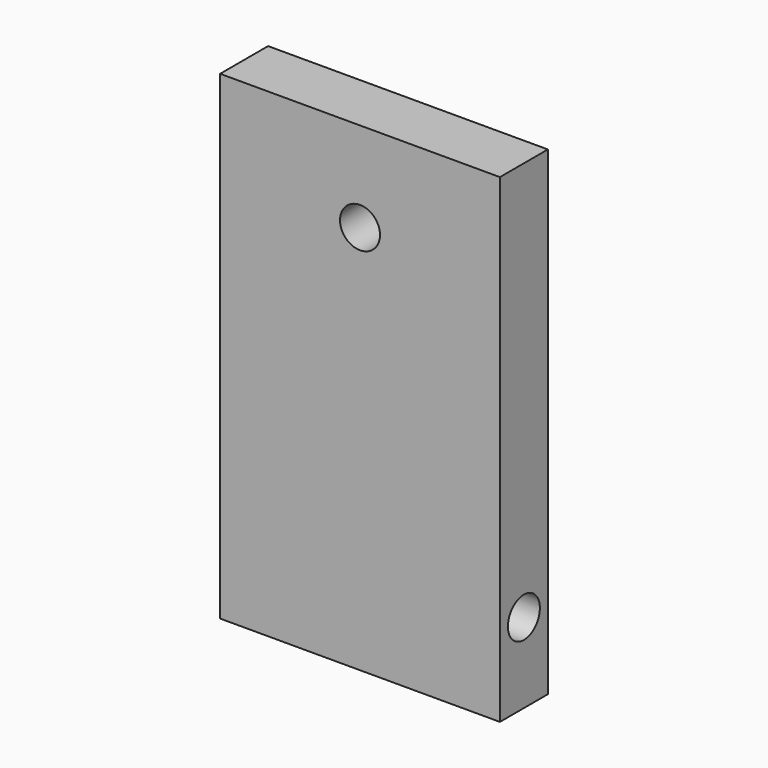
from build123d import *

# Parameters (mm, degrees)
F0_W     = 88.9
F0_H     = 19.05
F1_DEPTH = 152.4
F3_D     = 12.7
F5_D     = 12.7


with BuildPart() as f1:
    # F0 (on Top) → F1 (new body)
    with BuildSketch(Plane.XY):
        with Locations((44.45, -9.525)):
            Rectangle(F0_W, F0_H)
    extrude(amount=F1_DEPTH)

    # F3 (through all)
    with Locations(Plane.XZ.offset(19.05)):
        with Locations((44.45, 123.825)):
            Hole(F3_D / 2)

    # F5 (through all)
    with Locations(Plane.YZ.offset(88.9)):
        with Locations((-9.525, 25.4)):
            Hole(F5_D / 2)


solid = f1.part
